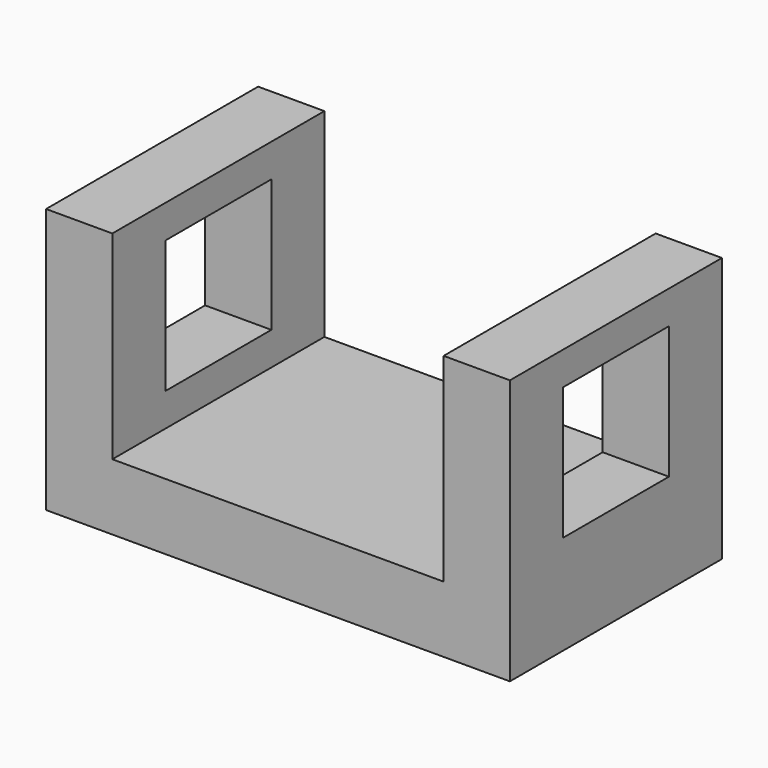
from build123d import *

# Parameters (mm, degrees)
F1_DEPTH = 50.8
F2_W     = 25.4
F2_H     = 25.4
F3_DEPTH = 12.7
F4_W     = 25.4
F4_H     = 25.4
F5_DEPTH = 88.901


with BuildPart() as f1:
    # F0 (on Front) → F1 (new body)
    with BuildSketch(Plane.XZ):
        Polygon((-47.564086, 39.519521), (-47.564086, -11.280479), (41.335914, -11.280479), (41.335914, 39.519521), (28.635914, 39.519521), (28.635914, 1.419521), (-34.864086, 1.419521), (-34.864086, 39.519521), align=None)
    extrude(amount=F1_DEPTH)

    # F2 (on face) → F3 (cut)
    with BuildSketch(Plane.YZ.offset(41.335914)):
        with Locations((-25.4, 20.469521)):
            Rectangle(F2_W, F2_H)
    extrude(amount=-F3_DEPTH, mode=Mode.SUBTRACT)

    # F4 (on face) → F5 (cut, through all)
    with BuildSketch(Plane(origin=(-47.564086, 0, 0), x_dir=(0, -1, 0), z_dir=(-1, 0, 0))):
        with Locations((25.4, 20.469521)):
            Rectangle(F4_W, F4_H)
    extrude(amount=-F5_DEPTH, mode=Mode.SUBTRACT)


solid = f1.part
